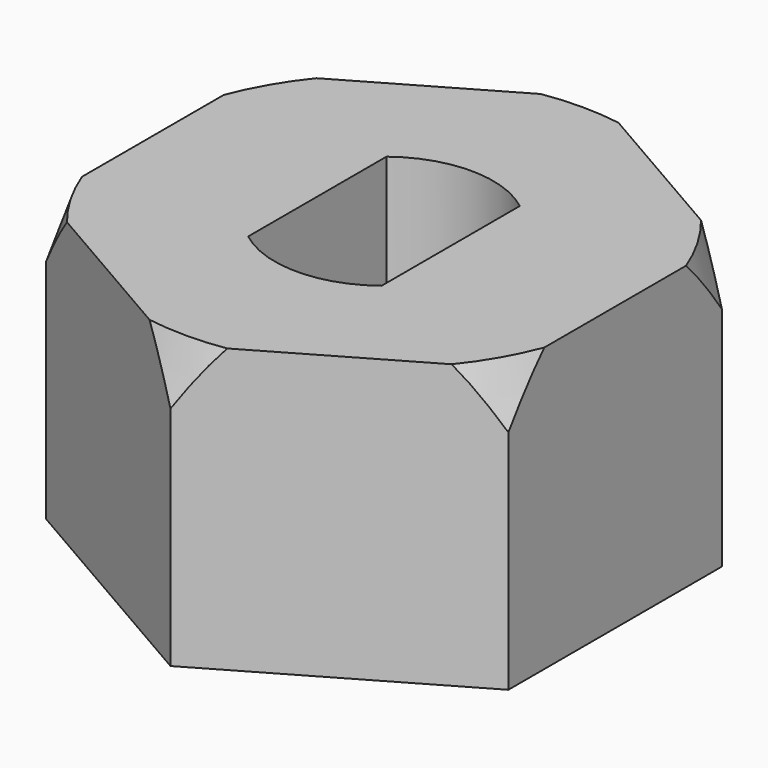
from build123d import *

# Parameters (mm, degrees)
F1_DEPTH = 7


with BuildPart() as f1:
    # F0 (on Top) → F1 (new body)
    with BuildSketch(Plane.XY):
        Polygon((-5.715768, -3.3), (0, -6.6), (5.715768, -3.3), (5.715768, 3.3), (0, 6.6), (-5.715768, 3.3), align=None)
        with BuildLine():
            ThreePointArc((1.65, 2.137171), (2.423324, 1.190588), (2.7, 0))
            ThreePointArc((2.7, 0), (2.423324, -1.190588), (1.65, -2.137171))
            ThreePointArc((1.65, -2.137171), (0, -2.7), (-1.65, -2.137171))
            ThreePointArc((-1.65, -2.137171), (-2.7, 0), (-1.65, 2.137171))
            ThreePointArc((-1.65, 2.137171), (0, 2.7), (1.65, 2.137171))
        make_face(mode=Mode.SUBTRACT)
        with BuildLine():
            Line((-1.65, -2.137171), (-1.65, 2.137171))
            ThreePointArc((-1.65, 2.137171), (-2.7, 0), (-1.65, -2.137171))
        make_face()
        with BuildLine():
            ThreePointArc((1.65, -2.137171), (2.423324, -1.190588), (2.7, 0))
            ThreePointArc((2.7, 0), (2.423324, 1.190588), (1.65, 2.137171))
            Line((1.65, 2.137171), (1.65, -2.137171))
        make_face()
    extrude(amount=F1_DEPTH)

    # F2 (on Right) → F3 (revolve, cut)
    with BuildSketch(Plane.YZ):
        Polygon((-7.079097, 4.205731), (-5.565229, 8.62103), (-7.079097, 8.62103), align=None)
    revolve(axis=Axis((0, 0, 4.921937), (0, 0, 1)), mode=Mode.SUBTRACT)


solid = f1.part
